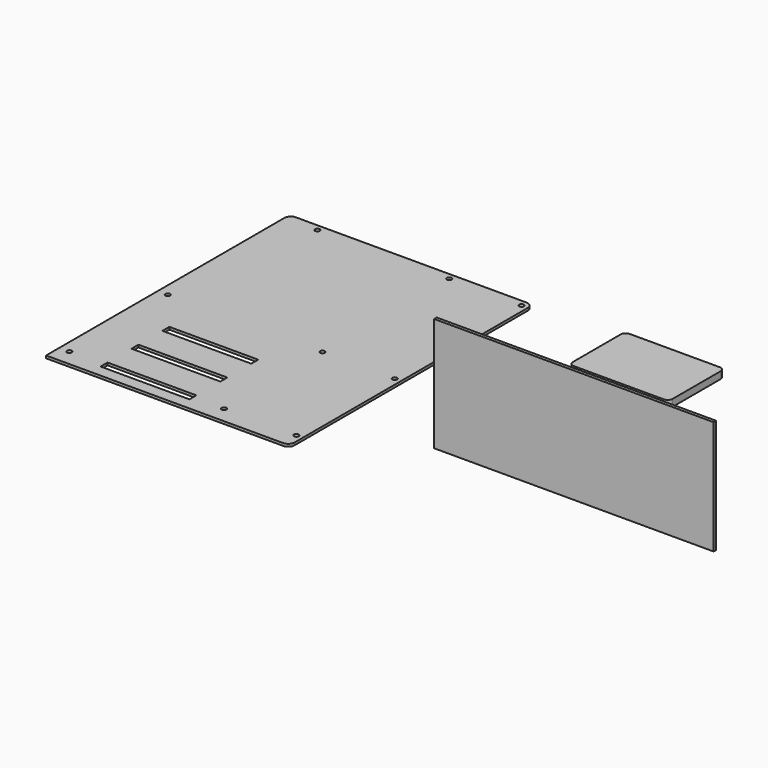
from build123d import *

# Parameters (mm, degrees)
F0_R     = 2.3876
F0_W     = 89
F0_H     = 8.7
F1_DEPTH = 2.54
F2_W     = 11.65
F2_H     = 3.175
F2_W_2   = 71.65
F3_DEPTH = 1.5
F2_W_3   = 89
F2_H_2   = 8.7
F4_DEPTH = 12
F5_DEPTH = 7
F2_W_4   = 279.908
F6_DEPTH = 114.046


with BuildPart() as f1:
    # F0 (on Top) → F1 (new body)
    with BuildSketch(Plane.XY):
        with BuildLine():
            Line((-118.178641, -162.141275), (109.151359, -162.141275))
            ThreePointArc((109.151359, -162.141275), (113.641487, -160.281403), (115.501359, -155.791275))
            Line((115.501359, -155.791275), (115.501359, 136.308725))
            ThreePointArc((115.501359, 136.308725), (113.641487, 140.798853), (109.151359, 142.658725))
            Line((109.151359, 142.658725), (-95.318641, 142.658725))
            Line((-95.318641, 142.658725), (-121.988641, 142.658725))
            ThreePointArc((-121.988641, 142.658725), (-126.478769, 140.798853), (-128.338641, 136.308725))
            Line((-128.338641, 136.308725), (-128.338641, -162.141275))
            Line((-128.338641, -162.141275), (-118.178641, -162.141275))
        make_face()
        with Locations((-118.178641, -145.631275)):
            Circle(F0_R, mode=Mode.SUBTRACT)
        with Locations((-38.838641, -145.791275)):
            Rectangle(F0_W, F0_H, mode=Mode.SUBTRACT)
        with Locations((-38.838641, -107.091275)):
            Rectangle(F0_W, F0_H, mode=Mode.SUBTRACT)
        with Locations((-118.178641, -22.441275)):
            Circle(F0_R, mode=Mode.SUBTRACT)
        with Locations((-38.838641, -68.391275)):
            Rectangle(F0_W, F0_H, mode=Mode.SUBTRACT)
        with Locations((36.761359, -145.631275)):
            Circle(F0_R, mode=Mode.SUBTRACT)
        with Locations((109.151359, -145.631275)):
            Circle(F0_R, mode=Mode.SUBTRACT)
        with Locations((36.761359, -22.441275)):
            Circle(F0_R, mode=Mode.SUBTRACT)
        with Locations((109.151359, -22.441275)):
            Circle(F0_R, mode=Mode.SUBTRACT)
        with Locations((-95.318641, 136.308725)):
            Circle(F0_R, mode=Mode.SUBTRACT)
        with Locations((36.761359, 136.308725)):
            Circle(F0_R, mode=Mode.SUBTRACT)
        with Locations((109.151359, 136.308725)):
            Circle(F0_R, mode=Mode.SUBTRACT)
    extrude(amount=F1_DEPTH)


with BuildPart() as f3:
    # F2 (on Top) → F3 (new body)
    with BuildSketch(Plane.XY):
        with Locations((204.504683, -4.3495)):
            Rectangle(F2_W, F2_H)
        with Locations((247.934683, -4.35)):
            Rectangle(F2_W_2, F2_H)
    extrude(amount=F3_DEPTH)


with BuildPart() as f4:
    # F2 (on Top) → F4 (new body)
    with BuildSketch(Plane.XY):
        with Locations((241.219683, -4.35)):
            Rectangle(F2_W_3, F2_H_2)
        with Locations((204.504683, -4.3495)):
            Rectangle(F2_W, F2_H, mode=Mode.SUBTRACT)
        with Locations((247.934683, -4.35)):
            Rectangle(F2_W_2, F2_H, mode=Mode.SUBTRACT)
    extrude(amount=F4_DEPTH)


with BuildPart() as f5:
    # F2 (on Top) → F5 (new body)
    with BuildSketch(Plane.XY):
        with BuildLine():
            ThreePointArc((205.664635, 79.998632), (207.129101, 76.463098), (210.664635, 74.998632))
            Line((210.664635, 74.998632), (300.664635, 74.998632))
            ThreePointArc((300.664635, 74.998632), (304.200169, 76.463098), (305.664635, 79.998632))
            Line((305.664635, 79.998632), (305.664635, 139.848632))
            ThreePointArc((305.664635, 139.848632), (304.200169, 143.384166), (300.664635, 144.848632))
            Line((300.664635, 144.848632), (210.664635, 144.848632))
            ThreePointArc((210.664635, 144.848632), (207.129101, 143.384166), (205.664635, 139.848632))
            Line((205.664635, 139.848632), (205.664635, 79.998632))
        make_face()
    extrude(amount=F5_DEPTH)


with BuildPart() as f6:
    # F2 (on Top) → F6 (new body)
    with BuildSketch(Plane.XY):
        with Locations((343.822464, -89.917104)):
            Rectangle(F2_W_4, F2_H)
    extrude(amount=F6_DEPTH)


solid = Compound([f1.part, f3.part, f4.part, f5.part, f6.part])
